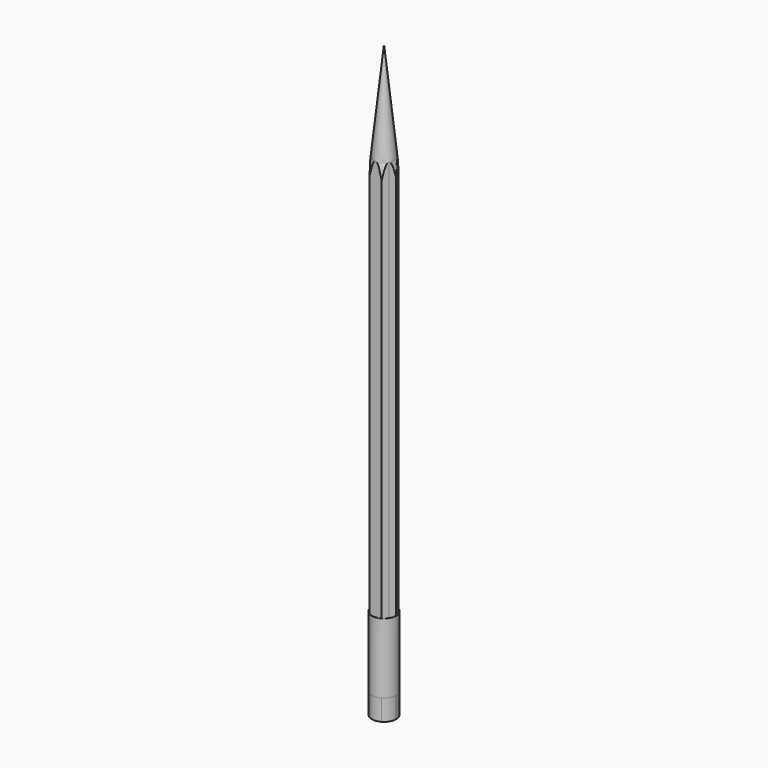
from build123d import *

# Parameters (mm, degrees)
F1_DEPTH = 76.2
F2_DEPTH = 20.32
F6_R     = 2.2251045256
F7_DEPTH = 6.35
F8_DEPTH = 10.16


with BuildPart() as f1:
    # F0 (on Top) → F1 (new body)
    with BuildSketch(Plane.XY):
        with BuildLine():
            ThreePointArc((1.6497784004, -0.9524999894), (1.8400887007, -0.493050275), (1.905, 0))
            ThreePointArc((1.905, 0), (1.8400887022, 0.4930502693), (1.6497784063, 0.9524999791))
            ThreePointArc((1.6497784063, 0.9524999791), (0.9525000104, 1.6497783882), (0, 1.905))
            ThreePointArc((0, 1.905), (-0.9525000104, 1.6497783882), (-1.6497784063, 0.9524999791))
            ThreePointArc((-1.6497784063, 0.9524999791), (-1.905, 0), (-1.6497784063, -0.9524999791))
            ThreePointArc((-1.6497784063, -0.9524999791), (-0.9525000104, -1.6497783882), (0, -1.905))
            ThreePointArc((0, -1.905), (0.9525000053, -1.6497783911), (1.6497784004, -0.9524999894))
        make_face()
        with BuildLine():
            ThreePointArc((-1.6497784063, 0.9524999791), (-0.9525000104, 1.6497783882), (0, 1.905))
            Line((0, 1.905), (-1.0998522628, 1.905))
            Line((-1.0998522628, 1.905), (-1.6497784063, 0.9524999791))
        make_face()
        with BuildLine():
            ThreePointArc((-1.6497784063, -0.9524999791), (-1.905, 0), (-1.6497784063, 0.9524999791))
            Line((-1.6497784063, 0.9524999791), (-2.1997045256, 0))
            Line((-2.1997045256, 0), (-1.6497784063, -0.9524999791))
        make_face()
        with BuildLine():
            Line((-1.0998522628, -1.905), (0, -1.905))
            ThreePointArc((0, -1.905), (-0.9525000104, -1.6497783882), (-1.6497784063, -0.9524999791))
            Line((-1.6497784063, -0.9524999791), (-1.0998522628, -1.905))
        make_face()
        with BuildLine():
            Line((1.0998522628, -1.905), (1.6497784004, -0.9524999894))
            ThreePointArc((1.6497784004, -0.9524999894), (0.9525000053, -1.6497783911), (0, -1.905))
            Line((0, -1.905), (1.0998522628, -1.905))
        make_face()
        with BuildLine():
            ThreePointArc((1.6497784063, 0.9524999791), (1.8400887022, 0.4930502693), (1.905, 0))
            ThreePointArc((1.905, 0), (1.8400887007, -0.493050275), (1.6497784004, -0.9524999894))
            Line((1.6497784004, -0.9524999894), (2.1997045256, 0))
            Line((2.1997045256, 0), (1.6497784063, 0.9524999791))
        make_face()
        with BuildLine():
            ThreePointArc((0, 1.905), (0.9525000104, 1.6497783882), (1.6497784063, 0.9524999791))
            Line((1.6497784063, 0.9524999791), (1.0998522628, 1.905))
            Line((1.0998522628, 1.905), (0, 1.905))
        make_face()
    extrude(amount=F1_DEPTH)

    # F2 (add): a face of the model
    f2_faces = [f1.faces().sort_by_distance(p)[0] for p in [
        (0, 0, 76.2),
    ]]
    extrude(f2_faces, amount=F2_DEPTH)

    # F3 (on Front) → F5 (revolve, cut)
    with BuildSketch(Plane.XZ):
        Polygon((-2.1997045256, 96.52), (-2.1997045256, 76.2), (-0.0381645256, 96.52), align=None)
    revolve(axis=Axis((0, 0, 48.3170896769), (0, 0, -1)), mode=Mode.SUBTRACT)


with BuildPart() as f7:
    # F6 (on face) → F7 (new body, symmetric)
    with BuildSketch(Plane(origin=(0, 0, 0), x_dir=(1, 0, 0), z_dir=(0, 0, -1))):
        Circle(F6_R)
        with BuildLine():
            ThreePointArc((1.0998522628, 1.905), (1.905, 1.0998522628), (2.1997045256, 0))
            ThreePointArc((2.1997045256, 0), (1.905, -1.0998522628), (1.0998522628, -1.905))
            ThreePointArc((1.0998522628, -1.905), (0, -2.1997045256), (-1.0998522628, -1.905))
            ThreePointArc((-1.0998522628, -1.905), (-1.905, -1.0998522628), (-2.1997045256, 0))
            ThreePointArc((-2.1997045256, 0), (-1.905, 1.0998522628), (-1.0998522628, 1.905))
            ThreePointArc((-1.0998522628, 1.905), (0, 2.1997045256), (1.0998522628, 1.905))
        make_face(mode=Mode.SUBTRACT)
    extrude(amount=F7_DEPTH, both=True)


with BuildPart() as f8:
    # F6 (on face) → F8 (new body)
    with BuildSketch(Plane(origin=(0, 0, 0), x_dir=(1, 0, 0), z_dir=(0, 0, -1))):
        with BuildLine():
            ThreePointArc((1.0998522628, -1.905), (1.905, -1.0998522628), (2.1997045256, 0))
            Line((2.1997045256, 0), (1.0998522628, -1.905))
        make_face()
        with BuildLine():
            ThreePointArc((-1.0998522628, -1.905), (0, -2.1997045256), (1.0998522628, -1.905))
            Line((1.0998522628, -1.905), (-1.0998522628, -1.905))
        make_face()
        Polygon((1.0998522628, -1.905), (2.1997045256, 0), (1.0998522628, 1.905), (-1.0998522628, 1.905), (-2.1997045256, 0), (-1.0998522628, -1.905), align=None)
        with BuildLine():
            ThreePointArc((-2.1997045256, 0), (-1.905, -1.0998522628), (-1.0998522628, -1.905))
            Line((-1.0998522628, -1.905), (-2.1997045256, 0))
        make_face()
        with BuildLine():
            Line((-2.1997045256, 0), (-1.0998522628, 1.905))
            ThreePointArc((-1.0998522628, 1.905), (-1.905, 1.0998522628), (-2.1997045256, 0))
        make_face()
        with BuildLine():
            Line((1.0998522628, 1.905), (2.1997045256, 0))
            ThreePointArc((2.1997045256, 0), (1.905, 1.0998522628), (1.0998522628, 1.905))
        make_face()
        with BuildLine():
            Line((-1.0998522628, 1.905), (1.0998522628, 1.905))
            ThreePointArc((1.0998522628, 1.905), (0, 2.1997045256), (-1.0998522628, 1.905))
        make_face()
    extrude(amount=F8_DEPTH)


solid = Compound([f1.part, f7.part, f8.part])
